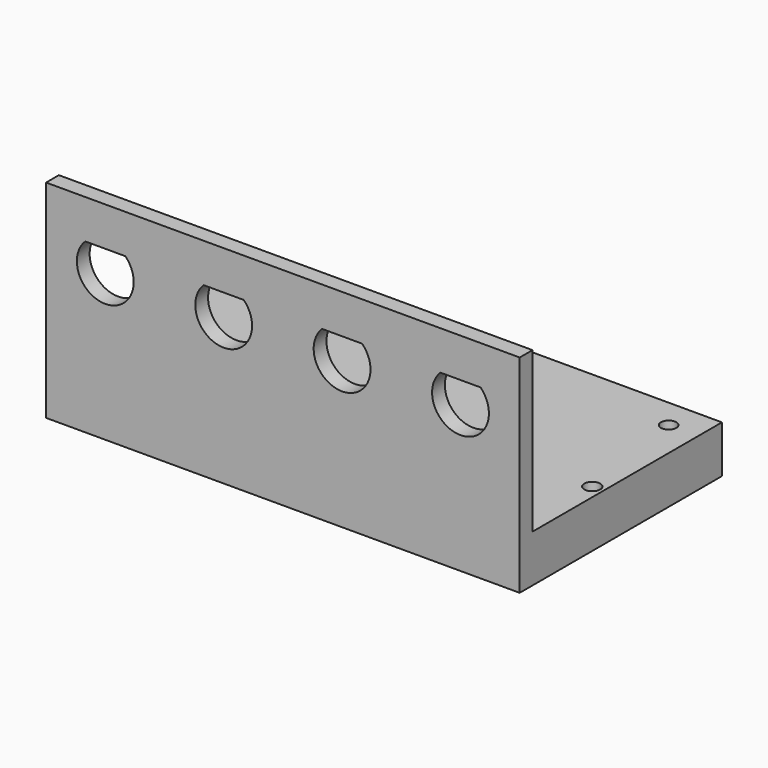
from build123d import *

# Parameters (mm, degrees)
F1_DEPTH = 80
F3_DEPTH = 42.701
F4_R     = 1.3
F4_R_2   = 1.35
F5_DEPTH = 8.001


with BuildPart() as f1:
    # F0 (on Right) → F1 (new body)
    with BuildSketch(Plane.YZ):
        Polygon((0, 35), (0, 0), (42.7, 0), (42.7, 8), (2.7, 8), (2.7, 35), align=None)
    extrude(amount=F1_DEPTH)

    # F2 (on face) → F3 (cut, through all)
    with BuildSketch(Plane.XZ):
        with BuildLine():
            Line((13.388215, 28.4), (6.611785, 28.4))
            ThreePointArc((6.611785, 28.4), (10, 20.2), (13.388215, 28.4))
        make_face()
        with BuildLine():
            Line((33.388215, 28.4), (26.611785, 28.4))
            ThreePointArc((26.611785, 28.4), (30, 20.2), (33.388215, 28.4))
        make_face()
        with BuildLine():
            Line((53.388215, 28.4), (46.611785, 28.4))
            ThreePointArc((46.611785, 28.4), (50, 20.2), (53.388215, 28.4))
        make_face()
        with BuildLine():
            Line((73.388215, 28.4), (66.611785, 28.4))
            ThreePointArc((66.611785, 28.4), (70, 20.2), (73.388215, 28.4))
        make_face()
    extrude(amount=-F3_DEPTH, mode=Mode.SUBTRACT)

    # F4 (on face) → F5 (cut, through all)
    with BuildSketch(Plane.XY.offset(8)):
        with Locations((5, 37.7)):
            Circle(F4_R)
        with Locations((75, 37.7)):
            Circle(F4_R)
        with Locations((14.6, 17.7)):
            Circle(F4_R_2)
        with Locations((27.3, 17.7)):
            Circle(F4_R_2)
        with Locations((1.9, 17.7)):
            Circle(F4_R_2)
        with Locations((40, 17.7)):
            Circle(F4_R_2)
        with Locations((52.7, 17.7)):
            Circle(F4_R_2)
        with Locations((65.4, 17.7)):
            Circle(F4_R_2)
        with Locations((78.1, 17.7)):
            Circle(F4_R_2)
    extrude(amount=-F5_DEPTH, mode=Mode.SUBTRACT)


solid = f1.part
